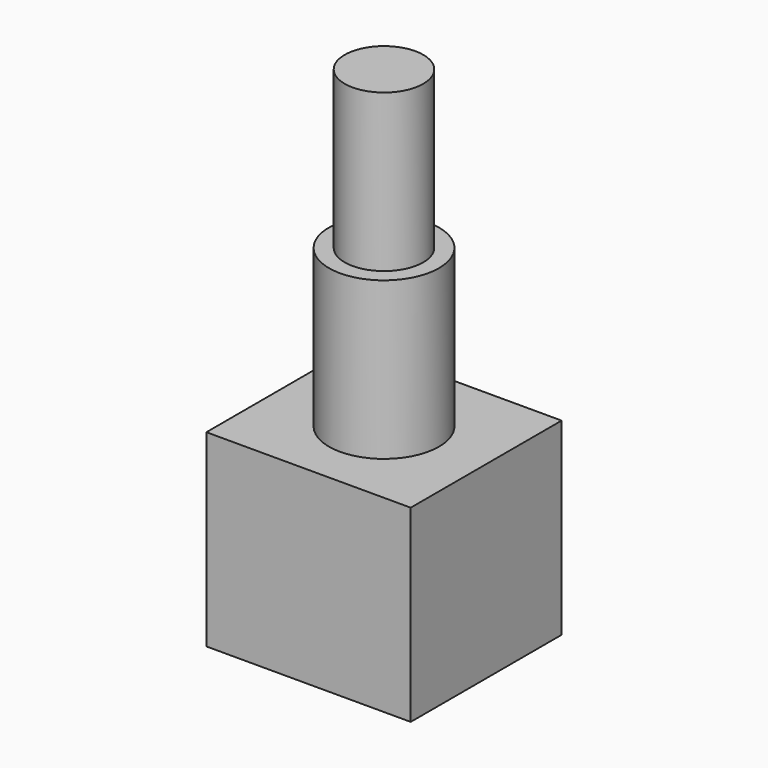
from build123d import *

# Parameters (mm, degrees)
SKETCH032_R  = 3.5
PAD032_DEPTH = 10
SKETCH033_R  = 2.5
PAD033_DEPTH = 10
SKETCH034_W  = 13
SKETCH034_H  = 12
PAD034_DEPTH = 12


with BuildPart() as part:
    # Sketch032 → Pad032 (new body)
    with BuildSketch(Plane.XY):
        Circle(SKETCH032_R)
    extrude(amount=PAD032_DEPTH)

    # Sketch033 (on Face3 of Pad032) → Pad033 (join)
    with BuildSketch(Plane.XY.offset(10)):
        Circle(SKETCH033_R)
    extrude(amount=PAD033_DEPTH)

    # Sketch034 (on Face2 of Pad033) → Pad034 (join)
    with BuildSketch(Plane(origin=(0, 0, 0), x_dir=(1, 0, 0), z_dir=(0, 0, -1))):
        Rectangle(SKETCH034_W, SKETCH034_H)
    extrude(amount=PAD034_DEPTH)


solid = part.part
